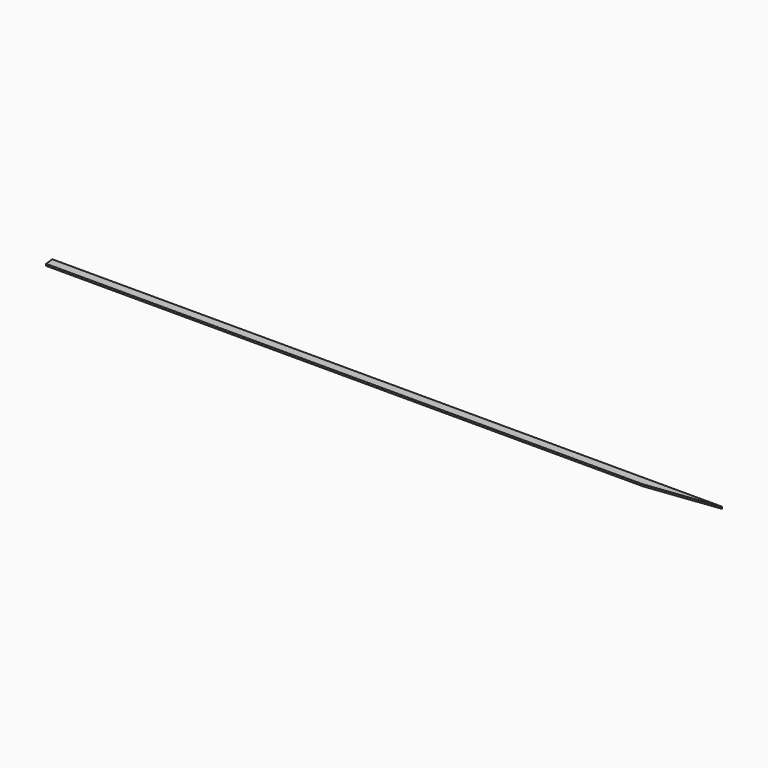
from build123d import *

# Parameters (mm, degrees)
F0_W     = 2971.96
F0_H     = 40
F1_DEPTH = 8
F3_DEPTH = 100
F5_DEPTH = 25
F7_DEPTH = 25


with BuildPart() as f1:
    # F0 (on Top) → F1 (new body)
    with BuildSketch(Plane.XY):
        Rectangle(F0_W, F0_H)
    extrude(amount=F1_DEPTH)

    # F2 (on face) → F3 (cut)
    with BuildSketch(Plane.XY.offset(8)):
        Polygon((1485.98, -20), (1485.98, 20), (1159.31062, -20), align=None)
    extrude(amount=-F3_DEPTH, mode=Mode.SUBTRACT)

    # F4 (on face) → F5 (cut)
    with BuildSketch(Plane.XY.offset(8)):
        Polygon((1475.98, 18.77552), (1485.98, 20), (1475.98, 20), align=None)
    extrude(amount=-F5_DEPTH, mode=Mode.SUBTRACT)

    # F6 (on face) → F7 (cut)
    with BuildSketch(Plane.XY.offset(8)):
        Polygon((-1481.082081, -20), (-1485.98, 20), (-1485.98, -20), align=None)
    extrude(amount=-F7_DEPTH, mode=Mode.SUBTRACT)


solid = f1.part
